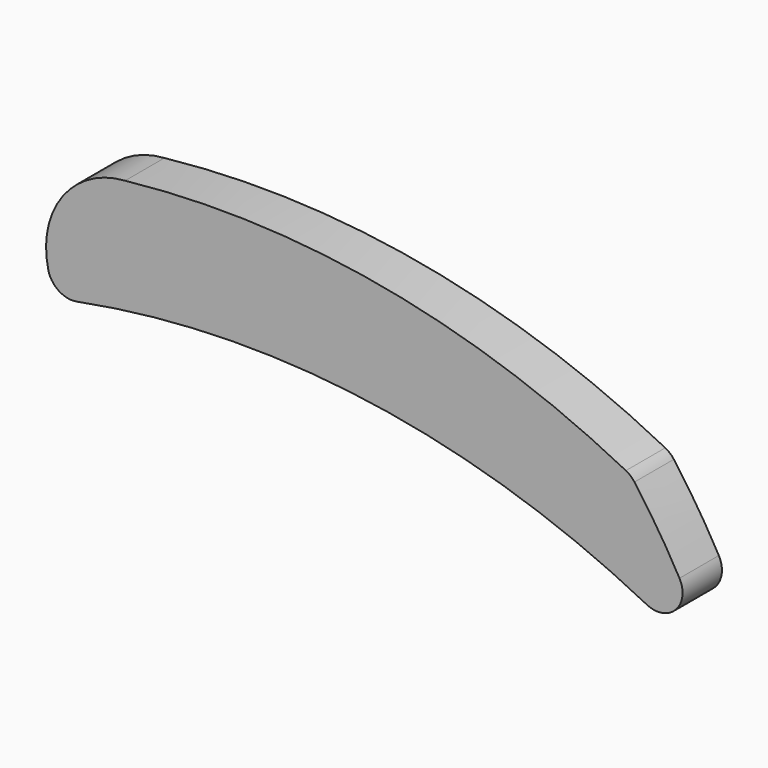
from build123d import *

# Parameters (mm, degrees)
F1_DEPTH = 12.7


with BuildPart() as f1:
    # F0 (on Front) → F1 (new body)
    with BuildSketch(Plane.XZ):
        with BuildLine():
            ThreePointArc((126.608238, -33.298336), (63.743612, -11.900326), (-2.618616, -9.473213))
            ThreePointArc((-2.618616, -9.473213), (-18.720598, -18.239824), (-22.427845, -36.194868))
            ThreePointArc((-22.427845, -36.194868), (-19.702387, -40.069858), (-15.053131, -40.979846))
            ThreePointArc((-15.053131, -40.979846), (60.218564, -39.206701), (131.983539, -61.983018))
            ThreePointArc((131.983539, -61.983018), (139.438808, -60.744668), (140.429628, -53.252484))
            ThreePointArc((140.429628, -53.252484), (134.91852, -44.025519), (128.818874, -35.176593))
            ThreePointArc((128.818874, -35.176593), (127.822247, -34.10954), (126.608238, -33.298336))
        make_face()
    extrude(amount=F1_DEPTH)


solid = f1.part
